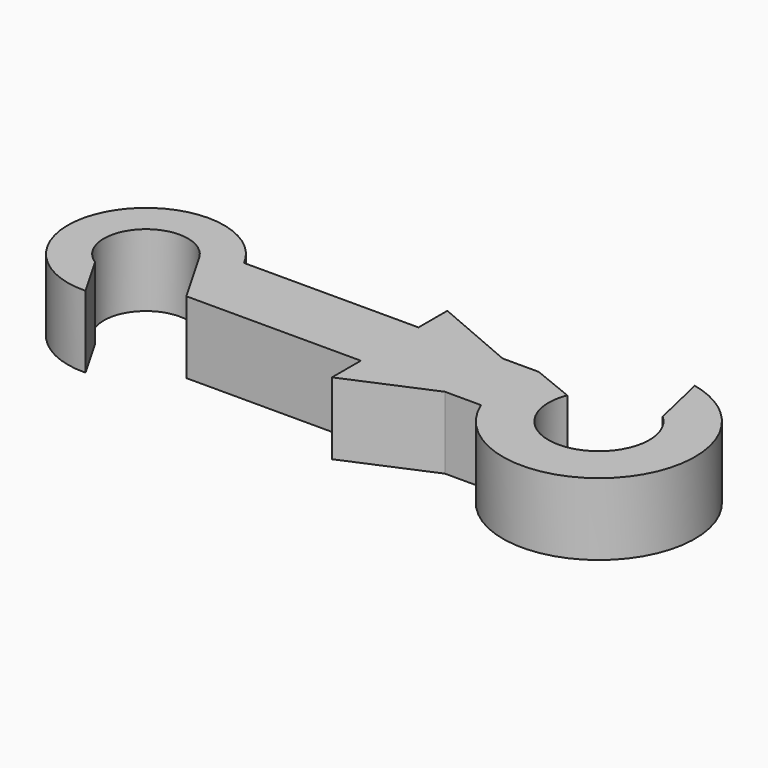
from build123d import *

# Parameters (mm, degrees)
PAD_DEPTH = 3


with BuildPart() as part:
    # Sketch → Pad (new body)
    with BuildSketch(Plane.XY):
        with BuildLine():
            ThreePointArc((15.141901, -1.5), (21.144306, -3.276608), (21.527784, 2.971443))
            ThreePointArc((21.527784, 2.971443), (20.682106, 3.555754), (19.715442, 3.905254))
            Line((20.255836, 1.560008), (19.715442, 3.905254))
            ThreePointArc((16.903248, 0.7875), (19.321529, -2.046377), (20.255836, 1.560008))
            Line((16.903248, 0.7875), (15.141901, 1.5))
            Line((15.141901, 1.5), (13.641901, 1.5))
            Line((13.641901, 1.5), (10.141901, 3))
            Line((10.141901, 3), (10.141901, 1.5))
            Line((10.141901, 1.5), (2.883141, 1.5))
            ThreePointArc((2.883141, 1.5), (-2.8, 1.65), (0.084684, -3.248897))
            Line((0.084684, -3.248897), (-0.938159, -1.47728))
            ThreePointArc((1.460552, 0.963995), (-1.248271, 1.226507), (-0.938159, -1.47728))
            Line((2.883141, -1.5), (1.460552, 0.963995))
            Line((10.141901, -1.5), (2.883141, -1.5))
            Line((10.141901, -3), (10.141901, -1.5))
            Line((13.641901, -1.5), (10.141901, -3))
            Line((15.141901, -1.5), (13.641901, -1.5))
        make_face()
    extrude(amount=PAD_DEPTH)


solid = part.part
